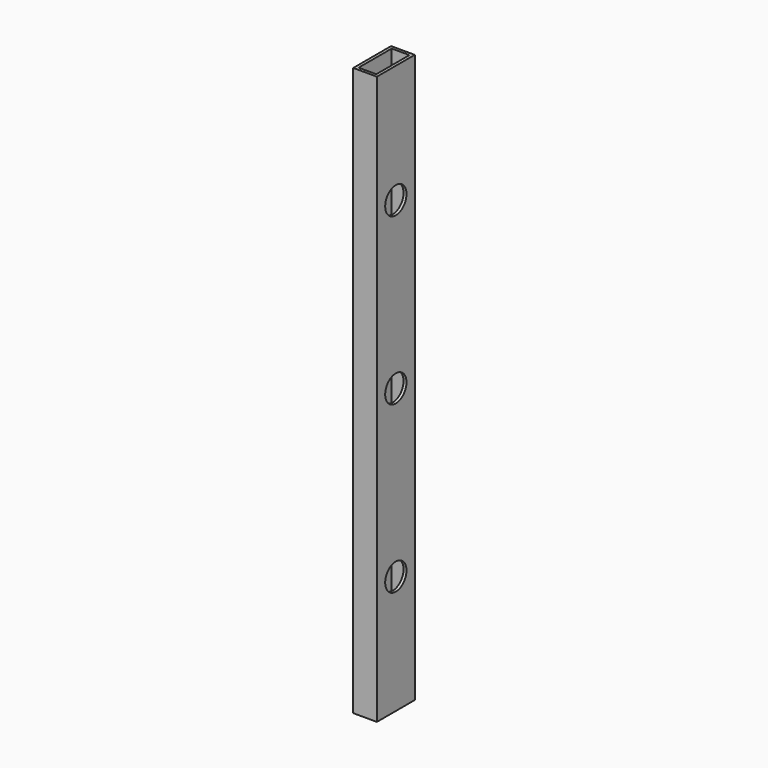
from build123d import *

# Parameters (mm, degrees)
F0_W     = 25.4
F0_H     = 50.8
F1_DEPTH = 609.6
F2_W     = 19.05
F2_H     = 44.45
F3_DEPTH = 670.56
F4_R     = 14.2875
F5_DEPTH = 83.82


with BuildPart() as f1:
    # F0 (on Top) → F1 (new body)
    with BuildSketch(Plane.XY):
        with Locations((-5.123792, 24.444854)):
            Rectangle(F0_W, F0_H)
    extrude(amount=F1_DEPTH)

    # F2 (on face) → F3 (cut)
    with BuildSketch(Plane.XY.offset(609.6)):
        with Locations((-5.123792, 24.444854)):
            Rectangle(F2_W, F2_H)
    extrude(amount=-F3_DEPTH, mode=Mode.SUBTRACT)

    # F4 (on face) → F5 (cut)
    with BuildSketch(Plane.YZ.offset(7.576208)):
        with Locations((24.444854, 304.8)):
            Circle(F4_R)
        with Locations((24.444854, 482.6)):
            Circle(F4_R)
        with Locations((24.444854, 127)):
            Circle(F4_R)
    extrude(amount=-F5_DEPTH, mode=Mode.SUBTRACT)


solid = f1.part
